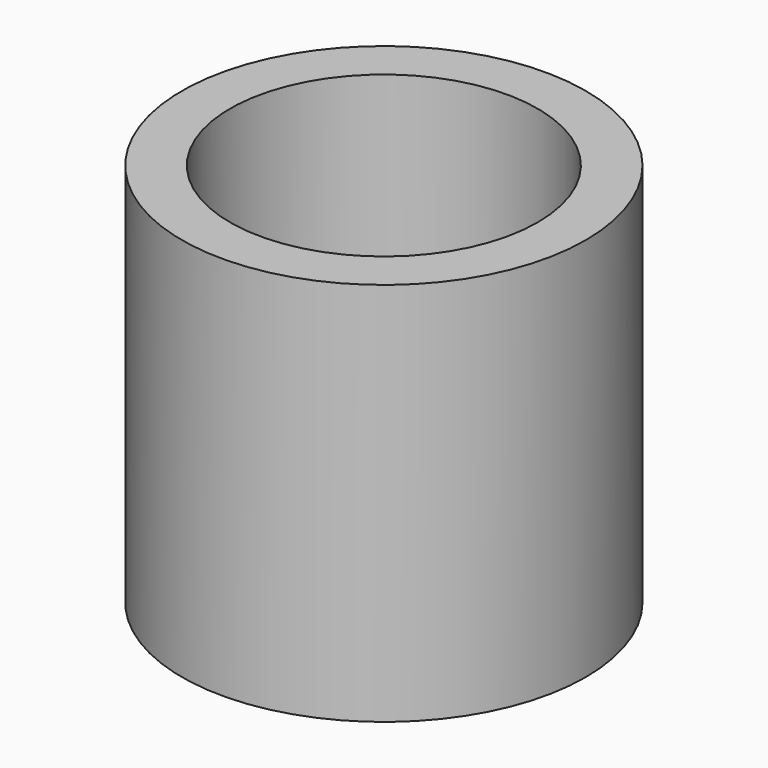
from build123d import *

# Parameters (mm, degrees)
F0_R     = 21
F0_R_2   = 16
F1_DEPTH = 40
F2_W     = 3
F2_H     = 3.25
F2_H_2   = 5.3
F4_DEPTH = 3.25


with BuildPart() as f1:
    # F0 (on Top) → F1 (new body)
    with BuildSketch(Plane.XY):
        Circle(F0_R)
        Circle(F0_R_2, mode=Mode.SUBTRACT)
    extrude(amount=-F1_DEPTH)


with BuildPart() as f3:
    # F2 (on Front) → F3 (revolve)
    with BuildSketch(Plane.XZ):
        with Locations((-17.5, -13.175)):
            Rectangle(F2_W, F2_H)
    revolve(axis=Axis((-17.5, 0, -11.55), (-1, 0, 0)))


with BuildPart() as f4:
    # F2 (on Front) → F4 (new body, symmetric)
    with BuildSketch(Plane.XZ):
        with Locations((-17.5, -5.65)):
            Rectangle(F2_W, F2_H_2)
        with Locations((-17.5, -9.925)):
            Rectangle(F2_W, F2_H)
    extrude(amount=F4_DEPTH, both=True)


solid = Compound([f1.part, f3.part, f4.part])
